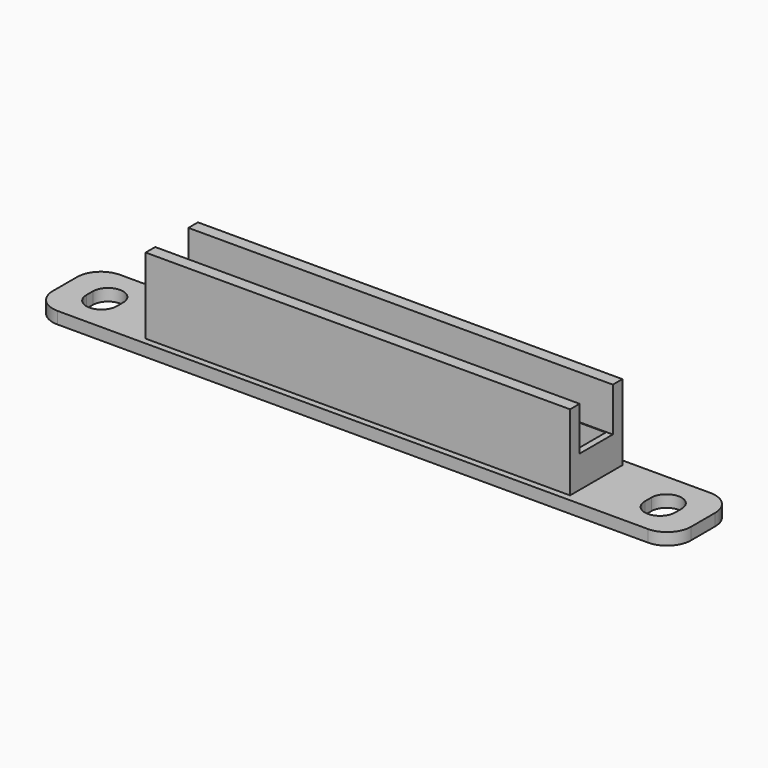
from build123d import *

# Parameters (mm, degrees)
BOX003_W          = 51.6
BOX003_H          = 0.8
BOX003_DEPTH      = 2
BOX001_W          = 51.6
BOX001_H          = 5
BOX001_DEPTH      = 4
BOX002_W          = 53.2
BOX002_H          = 5.2
BOX002_DEPTH      = 11
BOX008_W          = 3.8
BOX008_H          = 1
BOX008_DEPTH      = 10
CYLINDER002_R     = 1.9
CYLINDER002_DEPTH = 10
CYLINDER004_R     = 1.9
CYLINDER004_DEPTH = 10
ARRAY003_X_COUNT  = 2
ARRAY003_X_PITCH  = 70
BOX006_W          = 80
BOX006_H          = 9.8
BOX006_DEPTH      = 1.5
FILLET003_R       = 3
BOX_W             = 53.2
BOX_H             = 8.2
BOX_DEPTH         = 11


with BuildPart() as bottom_hole_middle_extraction:
    # Box003 → Box003 (new body)
    with BuildSketch(Plane(origin=(0.8, 3.7, 1.5), x_dir=(1, 0, 0), z_dir=(0, 0, 1))):
        with Locations((25.8, 0.4)):
            Rectangle(BOX003_W, BOX003_H)
    extrude(amount=BOX003_DEPTH)


with BuildPart() as bottom_hole_cut:
    # Box001 → Box001 (new body)
    with BuildSketch(Plane(origin=(0.8, 1.6, 1.5), x_dir=(1, 0, 0), z_dir=(0, 0, 1))):
        with Locations((25.8, 2.5)):
            Rectangle(BOX001_W, BOX001_H)
    extrude(amount=BOX001_DEPTH)

    # Cut003003: cut bottom hole middle extraction
    add(bottom_hole_middle_extraction.part, mode=Mode.SUBTRACT)


with BuildPart() as hole_fusion:
    # Box002 → Box002 (new body)
    with BuildSketch(Plane(origin=(0, 1.5, 5.5), x_dir=(1, 0, 0), z_dir=(0, 0, 1))):
        with Locations((26.6, 2.6)):
            Rectangle(BOX002_W, BOX002_H)
    extrude(amount=BOX002_DEPTH)

    # Fusion: union bottom hole cut
    add(bottom_hole_cut.part)


with BuildPart() as obj1:
    # Box008 → Box008 (new body)
    with BuildSketch(Plane(origin=(-1.9, 0, 0), x_dir=(1, 0, 0), z_dir=(0, 0, 1))):
        with Locations((1.9, 0.5)):
            Rectangle(BOX008_W, BOX008_H)
    extrude(amount=BOX008_DEPTH)


with BuildPart() as attach_hole001:
    # Cylinder002 → Cylinder002 (new body)
    with BuildSketch(Plane.XY):
        Circle(CYLINDER002_R)
    extrude(amount=CYLINDER002_DEPTH)


with BuildPart() as attach_hole_array001:
    # Cylinder004 → Cylinder004 (new body)
    with BuildSketch(Plane(origin=(0, 1, 0), x_dir=(1, 0, 0), z_dir=(0, 0, 1))):
        Circle(CYLINDER004_R)
    extrude(amount=CYLINDER004_DEPTH)

    # Fusion002: union obj1, attach hole001
    add(obj1.part)
    add(attach_hole001.part)


with BuildPart() as attach_hole_array001_1:
    # Fusion002 placement: moved
    add(attach_hole_array001.part.moved(Location((5, 4.4, 0))))

    # Array003 X: attach hole array001 ×2


with BuildPart() as attach_hole_array001_2:
    add(attach_hole_array001_1.part)
    with Locations(*[(i * ARRAY003_X_PITCH, 0, 0) for i in range(1, ARRAY003_X_COUNT)]):
        add(attach_hole_array001_1.part)


with BuildPart() as attach_plane_x_dir:
    # Box006 → Box006 (new body)
    with BuildSketch(Plane.XY):
        with Locations((40, 4.9)):
            Rectangle(BOX006_W, BOX006_H)
    extrude(amount=BOX006_DEPTH)

    # Fillet003
    fillet003_edges = [attach_plane_x_dir.edges().sort_by_distance(p)[0] for p in [
        (0, 0, 0.75),
        (0, 9.8, 0.75),
        (80, 0, 0.75),
        (80, 9.8, 0.75),
    ]]
    fillet(fillet003_edges, radius=FILLET003_R)

    # Cut003: cut attach hole array001
    add(attach_hole_array001_2.part, mode=Mode.SUBTRACT)


with BuildPart() as attach_plane_x_dir_1:
    # Cut003 placement: moved
    add(attach_plane_x_dir.part.moved(Location((-13.4, -0.8, 0))))


with BuildPart() as body_cut:
    # Box → Box (new body)
    with BuildSketch(Plane.XY):
        with Locations((26.6, 4.1)):
            Rectangle(BOX_W, BOX_H)
    extrude(amount=BOX_DEPTH)

    # Fusion001: union attach plane x dir
    add(attach_plane_x_dir_1.part)

    # Cut: cut hole fusion
    add(hole_fusion.part, mode=Mode.SUBTRACT)


solid = body_cut.part
